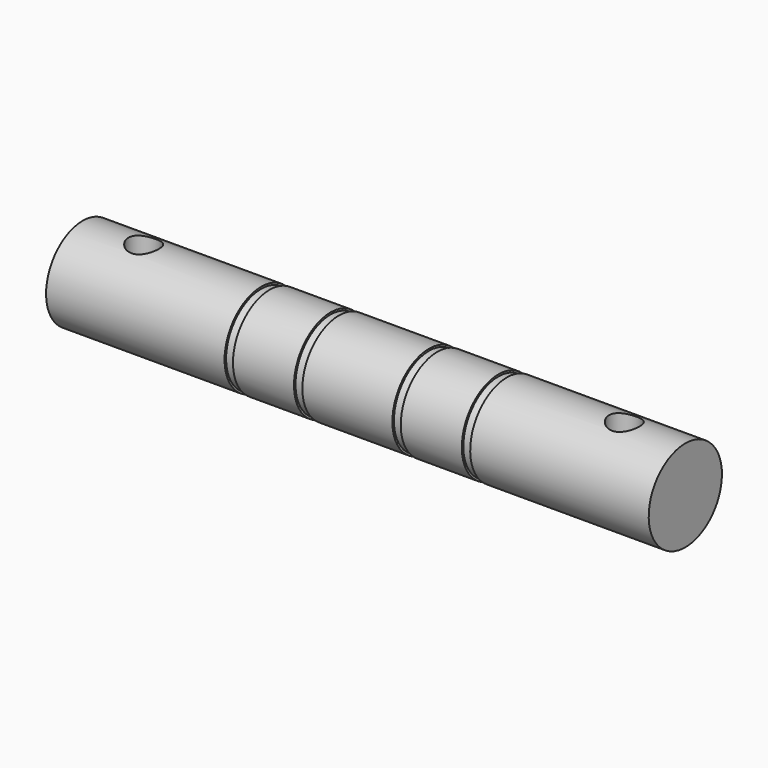
from build123d import *

# Parameters (mm, degrees)
F2_R          = 2
F3_DEPTH      = 6.001
F3_DEPTH_BACK = 6.001


with BuildPart() as f1:
    # F0 (on Front) → F1 (revolve)
    with BuildSketch(Plane.XZ):
        Polygon((0, 6), (0, 0), (79, 0), (79, 6), (55.6, 6), (55.6, 5.75), (54.5, 5.75), (54.5, 6), (46.5, 6), (46.5, 5.75), (45.4, 5.75), (45.4, 6), (33.6, 6), (33.6, 5.75), (32.5, 5.75), (32.5, 6), (24.5, 6), (24.5, 5.75), (23.4, 5.75), (23.4, 6), align=None)
    revolve(axis=Axis((39.5, 0, 0), (1, 0, 0)))

    # F2 (on Top) → F3 (cut, two sides)
    with BuildSketch(Plane.XY) as f3_sk:
        with Locations((71, 0)):
            Circle(F2_R)
        with Locations((8, 0)):
            Circle(F2_R)
    extrude(amount=-F3_DEPTH, mode=Mode.SUBTRACT)
    extrude(f3_sk.sketch, amount=F3_DEPTH_BACK, mode=Mode.SUBTRACT)


solid = f1.part
